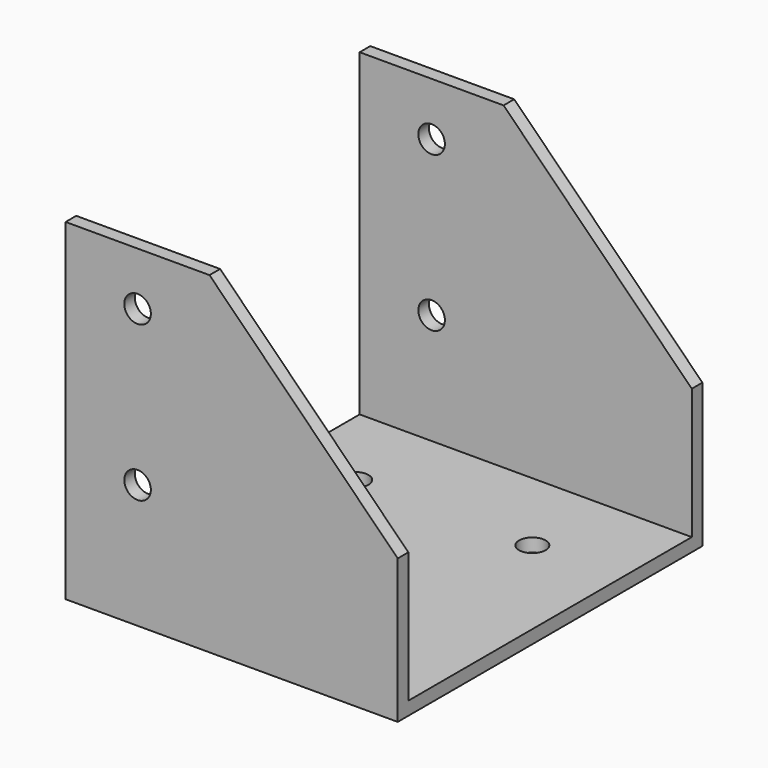
from build123d import *

# Parameters (mm, degrees)
F0_R     = 6
F1_DEPTH = 86
F2_W     = 160
F2_H     = 144
F3_DEPTH = 150.001
F4_R     = 6
F5_DEPTH = 150.001


with BuildPart() as f1:
    # F0 (on Front) → F1 (new body, symmetric)
    with BuildSketch(Plane.XZ):
        Polygon((0, 150), (0, 0), (150, 0), (150, 65), (65, 150), align=None)
        with Locations((32.5, 56)):
            Circle(F0_R, mode=Mode.SUBTRACT)
        with Locations((32.5, 126)):
            Circle(F0_R, mode=Mode.SUBTRACT)
    extrude(amount=F1_DEPTH, both=True)

    # F2 (on face) → F3 (cut, through all)
    with BuildSketch(Plane(origin=(0, 0, 0), x_dir=(0, -1, 0), z_dir=(-1, 0, 0))):
        with Locations((0, 78)):
            Rectangle(F2_W, F2_H)
    extrude(amount=-F3_DEPTH, mode=Mode.SUBTRACT)

    # F4 (on face) → F5 (cut, through all)
    with BuildSketch(Plane(origin=(0, 0, 0), x_dir=(1, 0, 0), z_dir=(0, 0, -1))):
        with Locations((110, 40)):
            Circle(F4_R)
        with Locations((110, -40)):
            Circle(F4_R)
        with Locations((30, 40)):
            Circle(F4_R)
        with Locations((30, -40)):
            Circle(F4_R)
    extrude(amount=-F5_DEPTH, mode=Mode.SUBTRACT)


solid = f1.part
